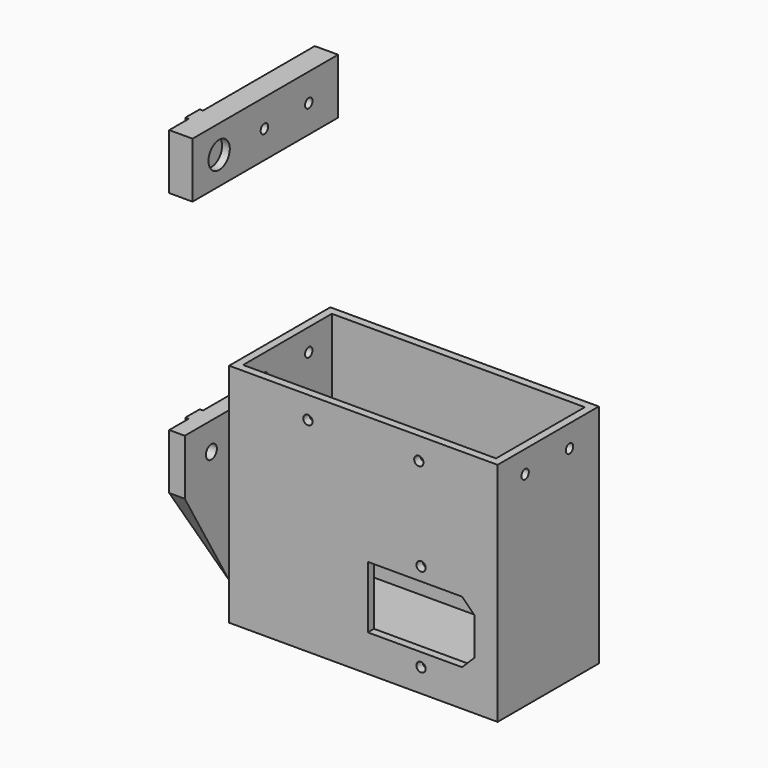
from build123d import *

# Parameters (mm, degrees)
SKETCH_W        = 121
SKETCH_H        = 57
PAD_DEPTH       = 102
SKETCH001_W     = 114
SKETCH001_H     = 50
POCKET_DEPTH    = 98.5
SKETCH002_R     = 2.1
POCKET001_DEPTH = 5
SKETCH003_R     = 2.1
POCKET002_DEPTH = 121.001
SKETCH004_R     = 2.1
POCKET003_DEPTH = 5
SKETCH005_W     = 82
SKETCH005_H     = 67.502304
PAD001_DEPTH    = 7
POCKET004_DEPTH = 82.001
POCKET005_DEPTH = 10
SKETCH009_W     = 8.1
SKETCH009_H     = 8.25
PAD002_DEPTH    = 1.5
CHAMFER_SIZE    = 1.49
POCKET006_DEPTH = 5
CHAMFER001_SIZE = 1.49
SKETCH010_R     = 3.1
POCKET007_DEPTH = 128.001
SKETCH011_W     = 82
SKETCH011_H     = 25
SKETCH011_R     = 3.1
PAD003_DEPTH    = 10.5
SKETCH013_W     = 8.1
SKETCH013_H     = 8.25
PAD004_DEPTH    = 1.5
SKETCH014_R     = 2.1
POCKET008_DEPTH = 10.501
SKETCH015_R     = 5
POCKET009_DEPTH = 7
SKETCH016_R     = 6
POCKET010_DEPTH = 3.5
SKETCH017_R     = 3.1
PAD005_DEPTH    = 0.2


with BuildPart() as body:
    # Sketch → Pad (new body)
    with BuildSketch(Plane.XY):
        Rectangle(SKETCH_W, SKETCH_H)
    extrude(amount=PAD_DEPTH)

    # Sketch001 (on Face6 of Pad) → Pocket (cut)
    with BuildSketch(Plane.XY.offset(102)):
        Rectangle(SKETCH001_W, SKETCH001_H)
    extrude(amount=-POCKET_DEPTH, mode=Mode.SUBTRACT)

    # Sketch002 (on Face6 of Pocket) → Pocket001 (cut)
    with BuildSketch(Plane.XZ.offset(28.5)):
        with Locations((26, 50.5)):
            Circle(SKETCH002_R)
        with Locations((26, 10.5)):
            Circle(SKETCH002_R)
        Polygon((2, 44.5), (44.5, 44.5), (50, 39), (50, 22), (44.5, 16.5), (2, 16.5), align=None)
    extrude(amount=-POCKET001_DEPTH, mode=Mode.SUBTRACT)

    # Sketch003 (on Face2 of Pocket001) → Pocket002 (cut, through all)
    with BuildSketch(Plane(origin=(-60.5, 0, 0), x_dir=(0, -1, 0), z_dir=(-1, 0, 0))):
        with Locations((-12, 92)):
            Circle(SKETCH003_R)
        with Locations((13, 92)):
            Circle(SKETCH003_R)
    extrude(amount=-POCKET002_DEPTH, mode=Mode.SUBTRACT)

    # Sketch004 (on Face6 of Pocket002) → Pocket003 (cut)
    with BuildSketch(Plane.XZ.offset(28.5)):
        with Locations((-25, 92)):
            Circle(SKETCH004_R)
        with Locations((25, 92)):
            Circle(SKETCH004_R)
    extrude(amount=-POCKET003_DEPTH, mode=Mode.SUBTRACT)

    # Sketch005 (on Face2 of Pocket003) → Pad001 (join)
    with BuildSketch(Plane(origin=(-60.5, 0, 0), x_dir=(0, -1, 0), z_dir=(-1, 0, 0))):
        with Locations((12.5, 50.613568)):
            Rectangle(SKETCH005_W, SKETCH005_H)
    extrude(amount=PAD001_DEPTH)

    # Sketch006 (on Face20 of Pad001) → Pocket004 (cut, through all)
    with BuildSketch(Plane.XZ.offset(53.5)):
        Polygon((-60.5, 16.862416), (-67.5, 59.36472), (-67.5, 16.862416), align=None)
    extrude(amount=-POCKET004_DEPTH, mode=Mode.SUBTRACT)

    # Sketch007 (on Face21 of Pocket004) → Pocket005 (cut)
    with BuildSketch(Plane.YZ.offset(-60.5)):
        Polygon((-28.5, 16.862416), (-53.5, 59.36472), (-53.5, 16.862416), align=None)
    extrude(amount=-POCKET005_DEPTH, mode=Mode.SUBTRACT)

    # Sketch009 (on Face11 of Pocket005) → Pad002 (join)
    with BuildSketch(Plane(origin=(-67.5, 0, 0), x_dir=(0, -1, 0), z_dir=(-1, 0, 0))):
        with Locations((38.5, 80.23972)):
            Rectangle(SKETCH009_W, SKETCH009_H)
        with Locations((38.5, 63.48972)):
            Rectangle(SKETCH009_W, SKETCH009_H)
    extrude(amount=PAD002_DEPTH)

    # Chamfer
    chamfer_edges = [body.edges().sort_by_distance(p)[0] for p in [
        (-69, -38.5, 59.36472),
    ]]
    chamfer(chamfer_edges, length=CHAMFER_SIZE)

    # Sketch008 (on Face44 of Chamfer) → Pocket006 (cut)
    with BuildSketch(Plane.XY.offset(3.5)):
        with BuildLine():
            ThreePointArc((-46.192696, 4), (-50.192696, 0), (-46.192696, -4))
            Line((-46.192696, -4), (-31.192696, -4))
            ThreePointArc((-31.192696, -4), (-27.192696, 0), (-31.192696, 4))
            Line((-46.192696, 4), (-31.192696, 4))
        make_face()
    extrude(amount=-POCKET006_DEPTH, mode=Mode.SUBTRACT)

    # Chamfer001
    chamfer001_edges = [body.edges().sort_by_distance(p)[0] for p in [
        (-69, -38.5, 76.11472),
    ]]
    chamfer(chamfer001_edges, length=CHAMFER001_SIZE)

    # Sketch010 (on Face4 of Chamfer001) → Pocket007 (cut, through all)
    with BuildSketch(Plane(origin=(-67.5, 0, 0), x_dir=(0, -1, 0), z_dir=(-1, 0, 0))):
        with Locations((38.5, 71.86472)):
            Circle(SKETCH010_R)
    extrude(amount=-POCKET007_DEPTH, mode=Mode.SUBTRACT)


with BuildPart() as body001:
    # Sketch011 (on Face1 of ShapeBinder) → Pad003 (new body)
    with BuildSketch(Plane(origin=(-67.5, 0, 0), x_dir=(0, -1, 0), z_dir=(-1, 0, 0))):
        with Locations((12.5, 71.86472)):
            Rectangle(SKETCH011_W, SKETCH011_H)
        with Locations((38.5, 71.86472)):
            Circle(SKETCH011_R, mode=Mode.SUBTRACT)
    extrude(amount=-PAD003_DEPTH)

    # Sketch013 (on Face1 of ShapeBinder) → Pad004 (join)
    with BuildSketch(Plane(origin=(-67.5, 0, 0), x_dir=(0, -1, 0), z_dir=(-1, 0, 0))):
        with Locations((38.5, 80.23972)):
            Rectangle(SKETCH013_W, SKETCH013_H)
        with Locations((38.5, 63.48972)):
            Rectangle(SKETCH013_W, SKETCH013_H)
    extrude(amount=PAD004_DEPTH)

    # Sketch014 (on Face4 of Pad004) → Pocket008 (cut, through all)
    with BuildSketch(Plane(origin=(-67.5, 0, 0), x_dir=(0, -1, 0), z_dir=(-1, 0, 0))):
        with Locations((-12, 71.86472)):
            Circle(SKETCH014_R)
        with Locations((13, 71.86472)):
            Circle(SKETCH014_R)
    extrude(amount=-POCKET008_DEPTH, mode=Mode.SUBTRACT)

    # Sketch015 (on Face4 of Pocket008) → Pocket009 (cut)
    with BuildSketch(Plane(origin=(-67.5, 0, 0), x_dir=(0, -1, 0), z_dir=(-1, 0, 0))):
        with Locations((-12, 71.86472)):
            Circle(SKETCH015_R)
        with Locations((13, 71.86472)):
            Circle(SKETCH015_R)
    extrude(amount=-POCKET009_DEPTH, mode=Mode.SUBTRACT)

    # Sketch016 (on Face6 of Pocket009) → Pocket010 (cut)
    with BuildSketch(Plane.YZ.offset(-57)):
        with Locations((-38.5, 71.86472)):
            Circle(SKETCH016_R)
    extrude(amount=-POCKET010_DEPTH, mode=Mode.SUBTRACT)

    # Sketch017 (on Face23 of Pocket010) → Pad005 (join)
    with BuildSketch(Plane.YZ.offset(-60.5)):
        with Locations((-38.5, 71.86472)):
            Circle(SKETCH017_R)
    extrude(amount=-PAD005_DEPTH)


with BuildPart() as body001_1:
    # Body001 placement: moved
    add(body001.part.moved(Location((0, 0, 119))))


solid = Compound([body.part, body001_1.part])
